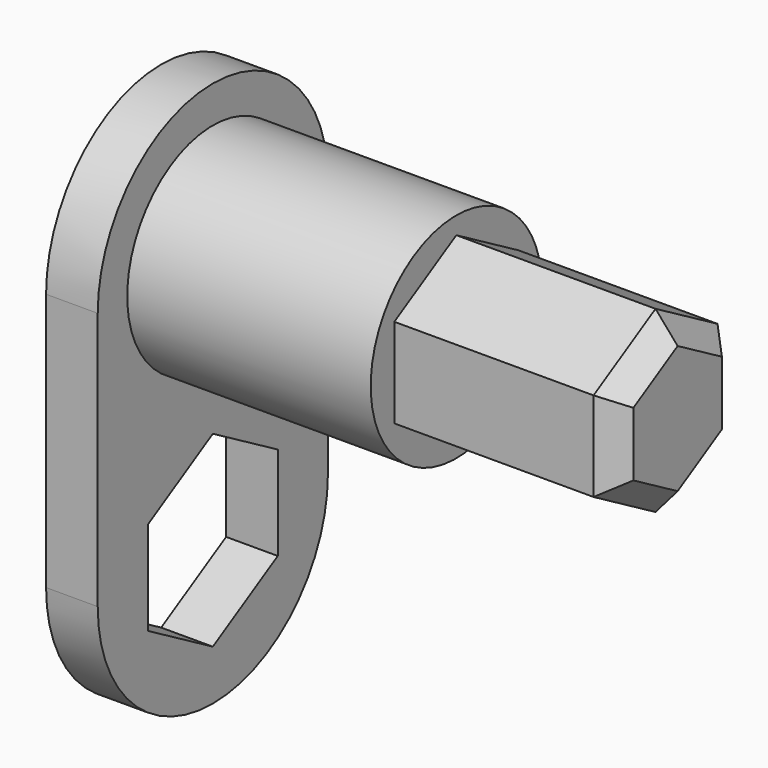
from build123d import *

# Parameters (mm, degrees)
F0_W     = 3.9
F0_H     = 3.5
F1_DEPTH = 0.7
F2_R     = 1.45
F3_DEPTH = 4
F5_DEPTH = 3
F6_SIZE  = 0.3
F8_DEPTH = 0.7


with BuildPart() as f1:
    # F0 (on Right) → F1 (new body)
    with BuildSketch(Plane.YZ):
        Rectangle(F0_W, F0_H)
        with BuildLine():
            Line((-1.95, 1.75), (1.95, 1.75))
            ThreePointArc((1.95, 1.75), (0, 3.7), (-1.95, 1.75))
        make_face()
        with BuildLine():
            ThreePointArc((-1.95, -1.75), (0, -3.7), (1.95, -1.75))
            Line((1.95, -1.75), (-1.95, -1.75))
        make_face()
    extrude(amount=F1_DEPTH)

    # F2 (on Right) → F3 (join)
    with BuildSketch(Plane.YZ):
        with Locations((0, 1.75)):
            Circle(F2_R)
    extrude(amount=F3_DEPTH)

    # F4 (on face) → F5 (join)
    with BuildSketch(Plane.YZ.offset(4)):
        Polygon((1.05, 1.143782), (1.05, 2.356218), (0, 2.962436), (-1.05, 2.356218), (-1.05, 1.143782), (0, 0.537564), align=None)
    extrude(amount=F5_DEPTH)

    # F6
    f6_edges = [f1.edges().sort_by_distance(p)[0] for p in [
        (7, -0.525, 2.659327),
        (7, 0.525, 2.659327),
        (7, 1.05, 1.75),
        (7, 0.525, 0.840673),
        (7, -0.525, 0.840673),
        (7, -1.05, 1.75),
    ]]
    chamfer(f6_edges, length=F6_SIZE)

    # F7 (on face) → F8 (cut, through all)
    with BuildSketch(Plane(origin=(0, 0, 0), x_dir=(0, -1, 0), z_dir=(-1, 0, 0))):
        Polygon((1.1, -2.385085), (1.1, -1.114915), (0, -0.479829), (-1.1, -1.114915), (-1.1, -2.385085), (0, -3.020171), align=None)
    extrude(amount=-F8_DEPTH, mode=Mode.SUBTRACT)


solid = f1.part
